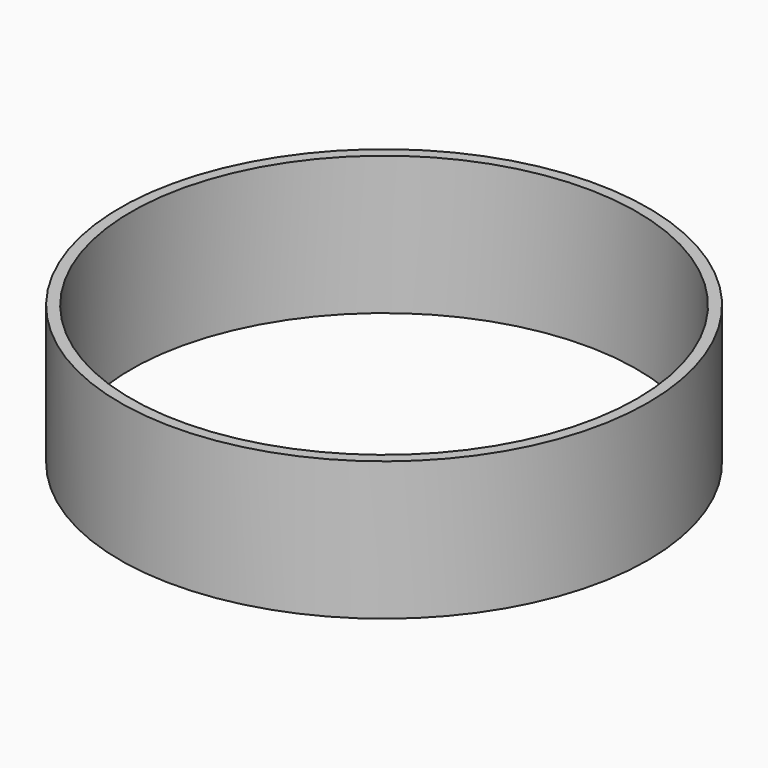
from build123d import *

# Parameters (mm, degrees)
CYLINDER008_R     = 73.025
CYLINDER008_DEPTH = 40
CYLINDER002_R     = 76.2
CYLINDER002_DEPTH = 40


with BuildPart() as chamberwall001:
    # Cylinder008 → Cylinder008 (new body)
    with BuildSketch(Plane(origin=(105, 148, 0), x_dir=(1, 0, 0), z_dir=(0, 0, 1))):
        Circle(CYLINDER008_R)
    extrude(amount=CYLINDER008_DEPTH)


with BuildPart() as chamberwall002:
    # Cylinder002 → Cylinder002 (new body)
    with BuildSketch(Plane(origin=(105, 148, 0), x_dir=(1, 0, 0), z_dir=(0, 0, 1))):
        Circle(CYLINDER002_R)
    extrude(amount=CYLINDER002_DEPTH)

    # Cut: cut ChamberWall001
    add(chamberwall001.part, mode=Mode.SUBTRACT)


with BuildPart() as chamberwall002_1:
    # Cut placement: moved
    add(chamberwall002.part.moved(Location((0, 0, 19))))


solid = chamberwall002_1.part
